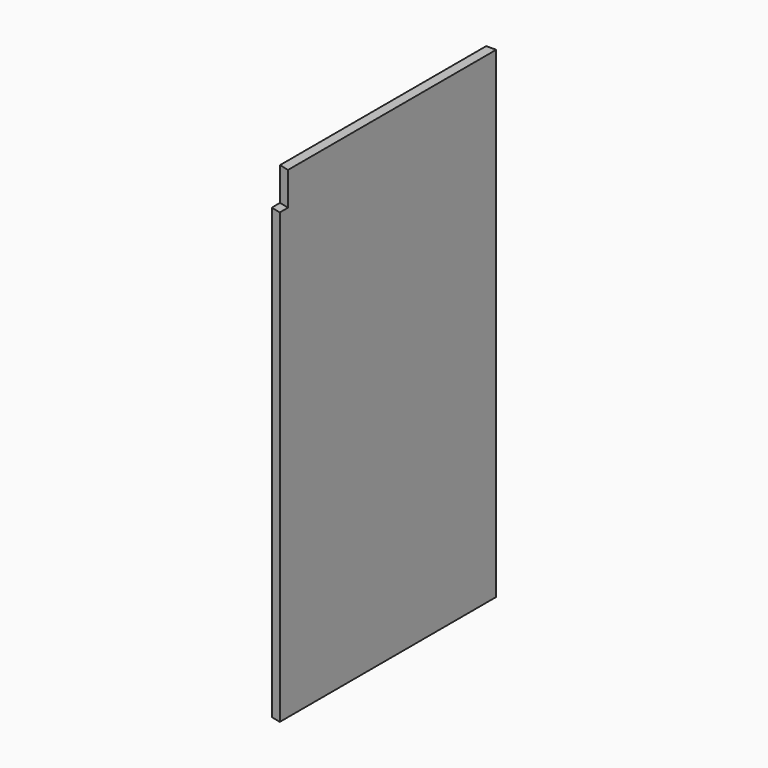
from build123d import *

# Parameters (mm, degrees)
F0_W     = 488.5
F0_H     = 870
F1_DEPTH = 18
F3_DEPTH = 870
F5_DEPTH = 60


with BuildPart() as f1:
    # F0 (on Right) → F1 (new body)
    with BuildSketch(Plane.YZ):
        Rectangle(F0_W, F0_H)
    extrude(amount=F1_DEPTH)

    # F2 (on face) → F3 (cut)
    with BuildSketch(Plane.XY.offset(435)):
        Polygon((0, -244.25), (18, -244.25), (0, -239.762096), align=None)
    extrude(amount=-F3_DEPTH, mode=Mode.SUBTRACT)

    # F4 (on face) → F5 (cut)
    with BuildSketch(Plane.XY.offset(435)):
        Polygon((0, -221.211051), (0, -239.762096), (18, -244.25), (18, -225.698955), align=None)
    extrude(amount=-F5_DEPTH, mode=Mode.SUBTRACT)


solid = f1.part
